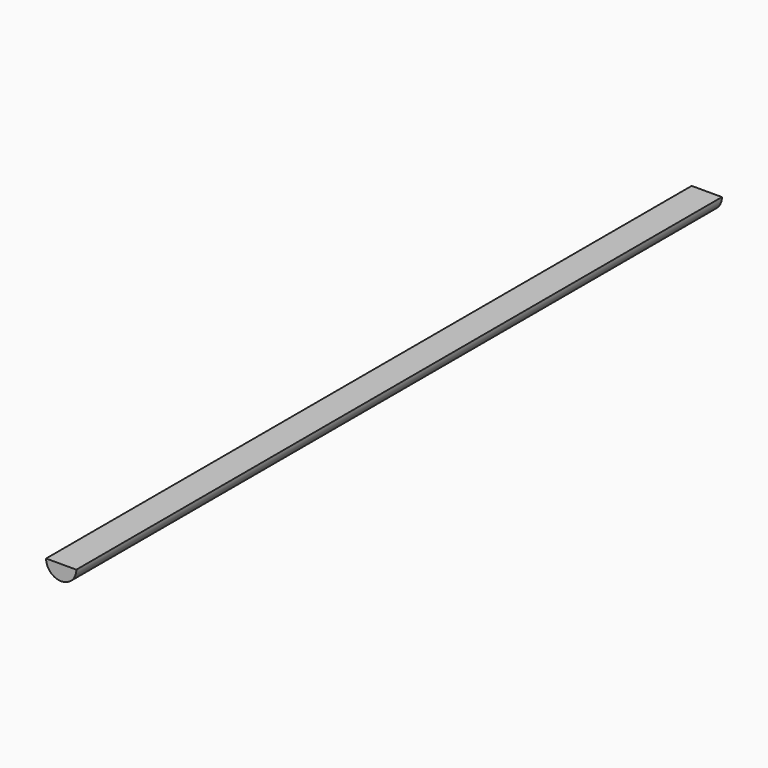
from build123d import *

# Parameters (mm, degrees)
F1_DEPTH      = 4000
F1_DEPTH_BACK = 4000


with BuildPart() as f1:
    # F0 (on Front) → F1 (new body, two sides)
    with BuildSketch(Plane.XZ) as f1_sk:
        with BuildLine():
            Line((150, 50), (-150, 50))
            ThreePointArc((-150, 50), (0, -100), (150, 50))
        make_face()
    extrude(amount=F1_DEPTH)
    extrude(f1_sk.sketch, amount=-F1_DEPTH_BACK)


solid = f1.part
